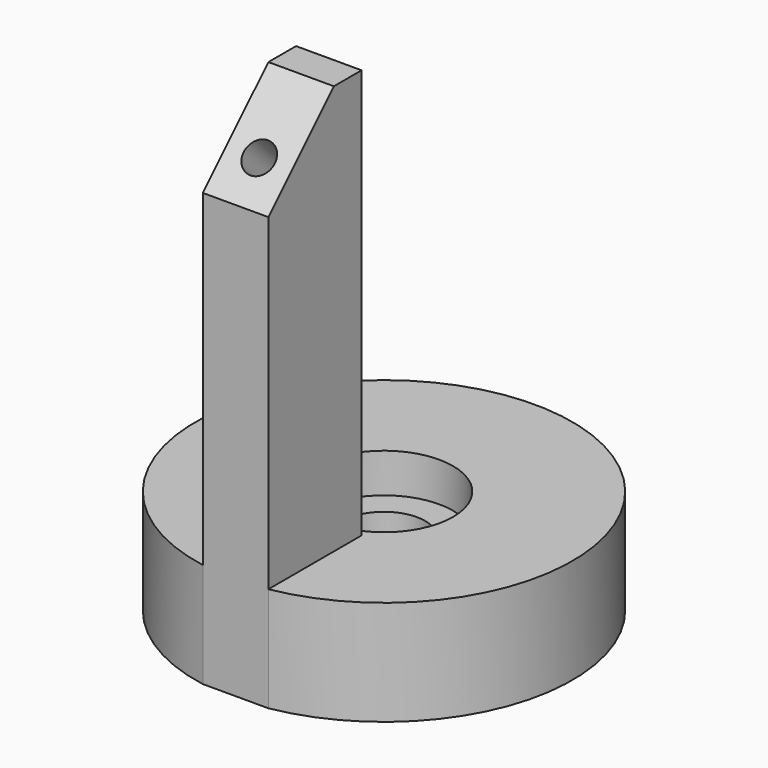
from build123d import *

# Parameters (mm, degrees)
SKETCH_R         = 11.5
PAD_DEPTH        = 6.4002
HOLE_D           = 5.0292
HOLE_CBORE_D     = 8.4248
HOLE_CBORE_DEPTH = 2.4002
SKETCH002_W      = 4
SKETCH002_H      = 7.112352
PAD001_DEPTH     = 25
CHAMFER_ANGLE    = 45
CHAMFER_SIZE     = 5
SKETCH003_R      = 0.95
POCKET_DEPTH     = 4.5
POCKET001_DEPTH  = 6.4012


with BuildPart() as part:
    # Sketch → Pad (new body)
    with BuildSketch(Plane.XY):
        Circle(SKETCH_R)
    extrude(amount=PAD_DEPTH)

    # Hole (through all)
    with Locations(Plane.XY.offset(6.4002)):
        with Locations((0, 0)):
            CounterBoreHole(HOLE_D / 2, HOLE_CBORE_D / 2, HOLE_CBORE_DEPTH)

    # Sketch002 (on DatumPlane) → Pad001 (join)
    with BuildSketch(Plane.XY.offset(6.4002)):
        with Locations((0, -7.768576)):
            Rectangle(SKETCH002_W, SKETCH002_H)
    extrude(amount=PAD001_DEPTH)

    # Chamfer
    chamfer_edges = [part.edges().sort_by_distance(p)[0] for p in [
        (0, -11.324752, 31.4002),
    ]]
    chamfer_side = part.faces().sort_by_distance((0, -11.324752, 18.9002))[0]
    chamfer(chamfer_edges, length=CHAMFER_SIZE, angle=CHAMFER_ANGLE, reference=chamfer_side)

    # Sketch003 (on Face3 of Chamfer) → Pocket (cut)
    with BuildSketch(Plane(origin=(0, -18.862476, 18.862476), x_dir=(1, 0, 0), z_dir=(0, -0.707107, 0.707107))):
        with Locations((0, 13.209952)):
            Circle(SKETCH003_R)
    extrude(amount=-POCKET_DEPTH, mode=Mode.SUBTRACT)

    # Sketch004 (on DatumPlane) → Pocket001 (cut, through all)
    with BuildSketch(Plane.XY.offset(6.4002)):
        with BuildLine():
            ThreePointArc((-2, -11.324752), (0, -11.5), (2, -11.324752))
            Line((-2, -11.324752), (2, -11.324752))
        make_face()
    extrude(amount=-POCKET001_DEPTH, mode=Mode.SUBTRACT)


solid = part.part
